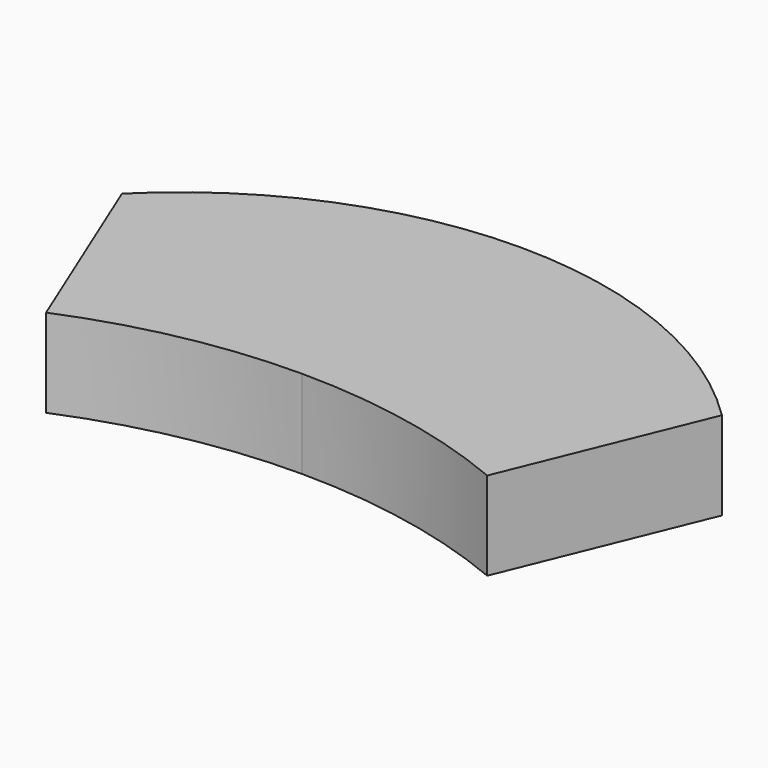
from build123d import *

# Parameters (mm, degrees)
F1_DEPTH = 5


with BuildPart() as f1:
    # F0 (on Top) → F1 (new body)
    with BuildSketch(Plane.XY):
        with BuildLine():
            ThreePointArc((-25, 0), (-18.873774, 1.868872), (-12.5, 2.5))
            Line((-12.5, 2.5), (-12.5, 11))
            Line((-12.5, 11), (-29.5, 11))
            Line((-29.5, 11), (-25, 0))
        make_face()
        with BuildLine():
            ThreePointArc((-12.5, 2.5), (-6.126226, 1.868872), (0, 0))
            Line((0, 0), (4.5, 11))
            ThreePointArc((4.5, 11), (-12.5, 18), (-29.5, 11))
            Line((-29.5, 11), (-12.5, 11))
            Line((-12.5, 11), (-12.5, 2.5))
        make_face()
    extrude(amount=F1_DEPTH)


solid = f1.part
